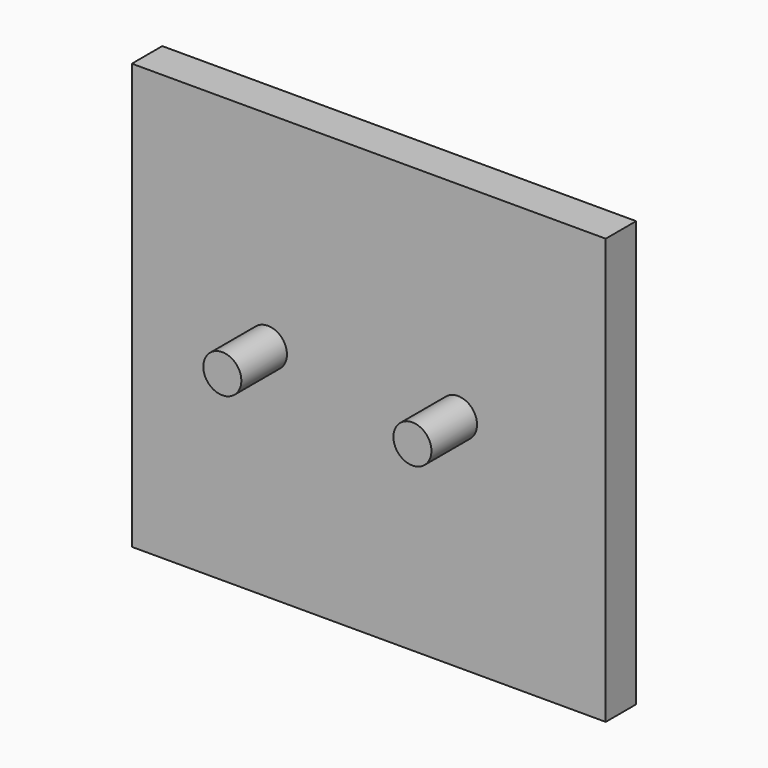
from build123d import *

# Parameters (mm, degrees)
F0_R     = 10
F1_DEPTH = 30
F0_W     = 249.290555
F0_H     = 223.794945
F2_DEPTH = 20


with BuildPart() as f1:
    # F0 (on Front) → F1 (new body)
    with BuildSketch(Plane.XZ):
        with Locations((100, 0)):
            Circle(F0_R)
        Circle(F0_R)
    extrude(amount=F1_DEPTH)


with BuildPart() as f2:
    # F0 (on Front) → F2 (new body)
    with BuildSketch(Plane.XZ):
        with Locations((53.049862, -3.777105)):
            Rectangle(F0_W, F0_H)
        Circle(F0_R, mode=Mode.SUBTRACT)
        with Locations((100, 0)):
            Circle(F0_R, mode=Mode.SUBTRACT)
    extrude(amount=-F2_DEPTH)


solid = Compound([f1.part, f2.part])
